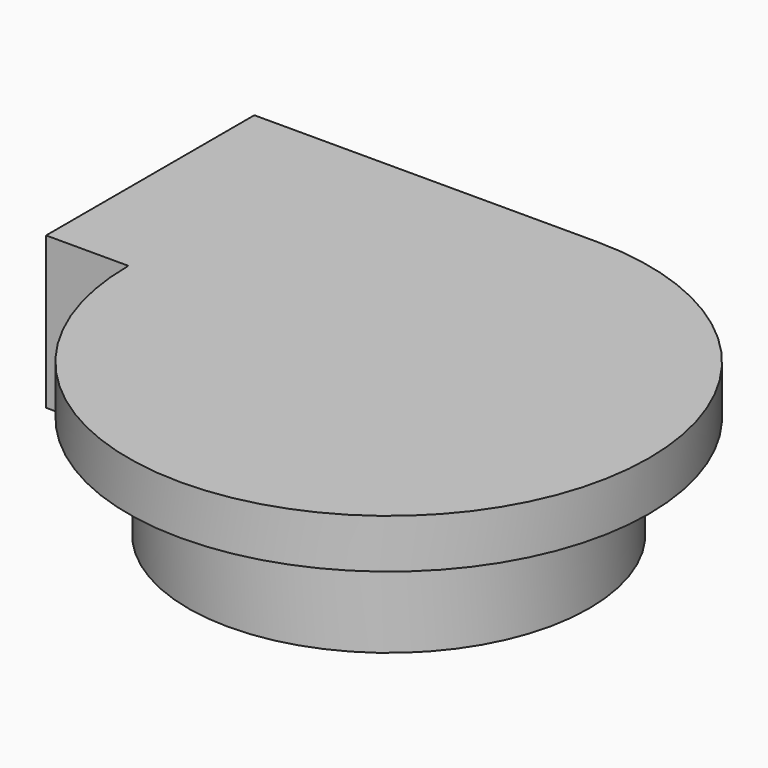
from build123d import *

# Parameters (mm, degrees)
F1_DEPTH = 76.2


with BuildPart() as f1:
    # F0 (on Right) → F1 (new body)
    with BuildSketch(Plane.YZ):
        Polygon((-44.5846021175, 0), (0, 0), (0, 22.8392984718), (13.3088370785, 22.8392984718), (13.3088370785, 33.7528288364), (-44.5846021175, 33.7528288364), align=None)
    extrude(amount=F1_DEPTH)

    # F1_face (on face) → F2 (revolve)
    with BuildSketch(Plane(origin=(76.2, -19.7443345701, 17.881602017), x_dir=(0, 1, 0), z_dir=(1, 0, 0))):
        Polygon((-24.8402675474, -17.881602017), (19.7443345701, -17.881602017), (19.7443345701, 4.9576964548), (33.0531716486, 4.9576964548), (33.0531716486, 15.8712268194), (-24.8402675474, 15.8712268194), align=None)
    revolve(axis=Axis((76.2, -44.5846021175, 16.8764144182), (0, 0, 1)))


solid = f1.part
